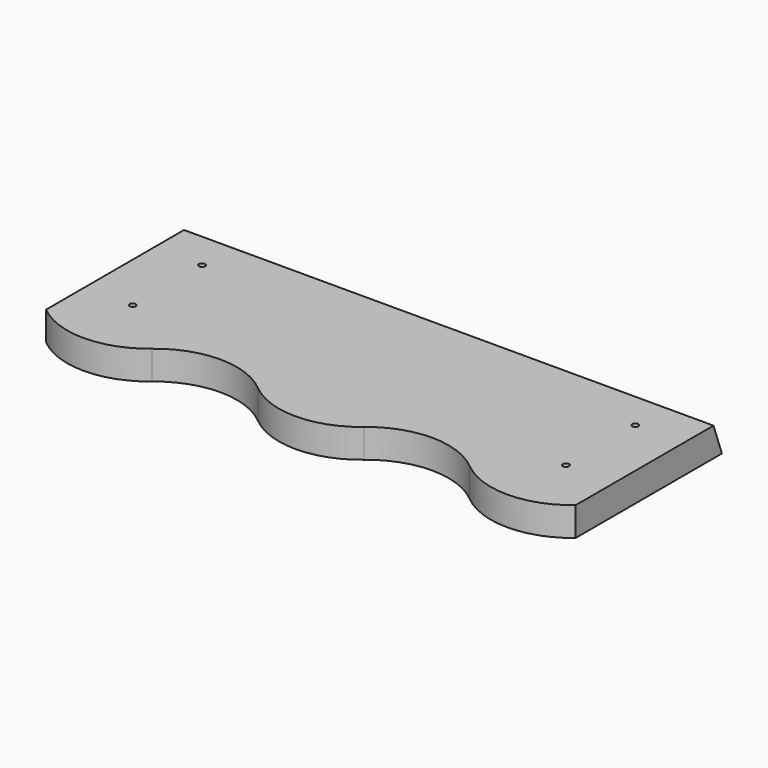
from build123d import *

# Parameters (mm, degrees)
F0_R     = 2.032
F1_DEPTH = 19.05
F3_DEPTH = 349.25


with BuildPart() as f1:
    # F0 (on Top) → F1 (new body)
    with BuildSketch(Plane.XY):
        with BuildLine():
            Line((174.625, -53.986043), (174.625, 66.675))
            Line((174.625, 66.675), (-174.625, 66.675))
            Line((-174.625, 66.675), (-174.625, -53.986043))
            ThreePointArc((-174.625, -53.986043), (-139.7, -66.67541), (-104.775, -53.986043))
            ThreePointArc((-104.775, -53.986043), (-69.85, -41.296677), (-34.925, -53.986043))
            ThreePointArc((-34.925, -53.986043), (0, -66.675), (34.925, -53.986043))
            ThreePointArc((34.925, -53.986043), (69.85, -41.296677), (104.775, -53.986043))
            ThreePointArc((104.775, -53.986043), (139.7, -66.67541), (174.625, -53.986043))
        make_face()
        with Locations((-142.875, -22.225)):
            Circle(F0_R, mode=Mode.SUBTRACT)
        with Locations((142.875, -22.225)):
            Circle(F0_R, mode=Mode.SUBTRACT)
        with Locations((-142.875, 34.925)):
            Circle(F0_R, mode=Mode.SUBTRACT)
        with Locations((142.875, 34.925)):
            Circle(F0_R, mode=Mode.SUBTRACT)
    extrude(amount=F1_DEPTH)

    # F2 (on face) → F3 (cut)
    with BuildSketch(Plane(origin=(-174.625, 0, 0), x_dir=(0, -1, 0), z_dir=(-1, 0, 0))):
        Polygon((-59.741367, 19.05), (-66.675, 19.05), (-66.675, 0), align=None)
    extrude(amount=-F3_DEPTH, mode=Mode.SUBTRACT)


solid = f1.part
